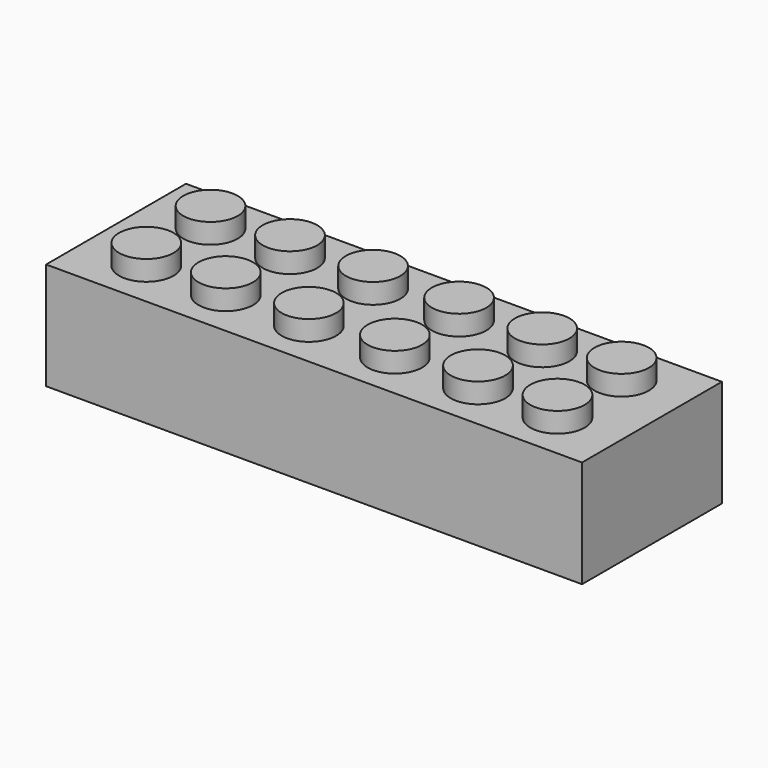
from build123d import *

# Parameters (mm, degrees)
F0_W     = 47.498
F0_H     = 15.494
F1_DEPTH = 9.4996
F2_R     = 2.413
F3_DEPTH = 1.778


with BuildPart() as f1:
    # F0 (on Top) → F1 (new body)
    with BuildSketch(Plane.XY):
        Rectangle(F0_W, F0_H)
    extrude(amount=F1_DEPTH)

    # F2 (on face) → F3 (join)
    with BuildSketch(Plane.XY.offset(9.4996)):
        with Locations((-18.218508, 3.556)):
            Circle(F2_R)
        with Locations((-11.176, 3.556)):
            Circle(F2_R)
        with Locations((-3.81, 3.556)):
            Circle(F2_R)
        with Locations((3.81, 3.556)):
            Circle(F2_R)
        with Locations((11.176, 3.556)):
            Circle(F2_R)
        with Locations((18.218508, 3.556)):
            Circle(F2_R)
        with Locations((18.218508, -3.556)):
            Circle(F2_R)
        with Locations((11.176, -3.556)):
            Circle(F2_R)
        with Locations((-11.176, -3.556)):
            Circle(F2_R)
        with Locations((-3.81, -3.556)):
            Circle(F2_R)
        with Locations((3.81, -3.556)):
            Circle(F2_R)
        with Locations((-18.218508, -3.556)):
            Circle(F2_R)
    extrude(amount=F3_DEPTH)


solid = f1.part
